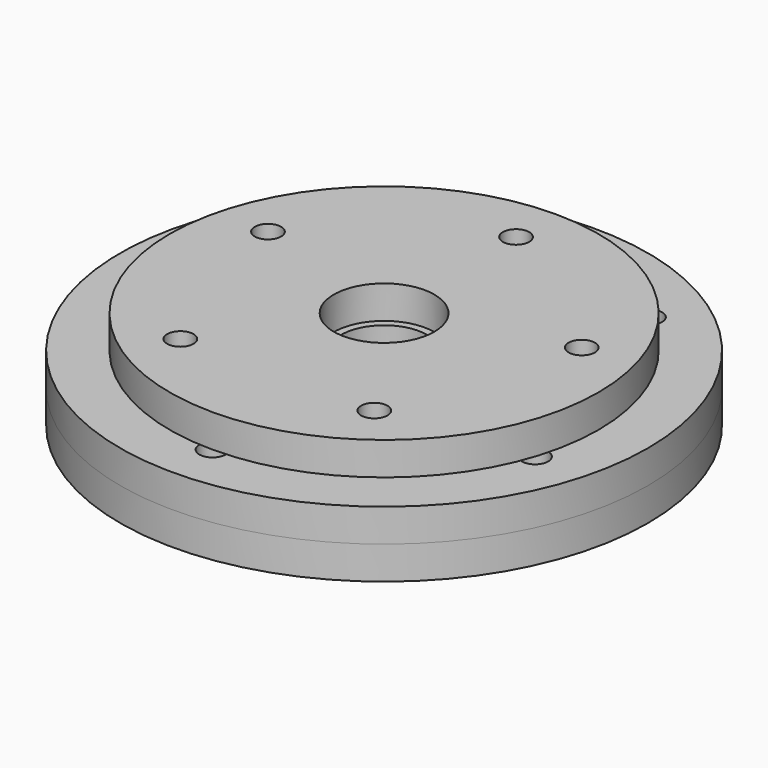
from build123d import *

# Parameters (mm, degrees)
F0_R     = 40
F0_R_2   = 3.5
F0_R_3   = 2
F0_R_4   = 6.5
F1_DEPTH = 5
F2_R     = 40
F2_R_2   = 2
F2_R_3   = 6.5
F3_DEPTH = 5
F4_R     = 32.5
F4_R_2   = 2
F4_R_3   = 7.625
F5_DEPTH = 5


with BuildPart() as f1:
    # F0 (on Top) → F1 (new body)
    with BuildSketch(Plane.XY):
        Circle(F0_R)
        with Locations((-14.694631, -20.225425)):
            Circle(F0_R_2, mode=Mode.SUBTRACT)
        with Locations((-30.909337, -10.043052)):
            Circle(F0_R_3, mode=Mode.SUBTRACT)
        with Locations((0, -32.5)):
            Circle(F0_R_3, mode=Mode.SUBTRACT)
        with Locations((14.694631, -20.225425)):
            Circle(F0_R_2, mode=Mode.SUBTRACT)
        with Locations((30.909337, -10.043052)):
            Circle(F0_R_3, mode=Mode.SUBTRACT)
        with Locations((-23.776413, 7.725425)):
            Circle(F0_R_2, mode=Mode.SUBTRACT)
        with Locations((-19.103021, 26.293052)):
            Circle(F0_R_3, mode=Mode.SUBTRACT)
        Circle(F0_R_4, mode=Mode.SUBTRACT)
        with Locations((23.776413, 7.725425)):
            Circle(F0_R_2, mode=Mode.SUBTRACT)
        with Locations((0, 25)):
            Circle(F0_R_2, mode=Mode.SUBTRACT)
        with Locations((19.103021, 26.293052)):
            Circle(F0_R_3, mode=Mode.SUBTRACT)
    extrude(amount=F1_DEPTH)


with BuildPart() as f3:
    # F2 (on face) → F3 (new body)
    with BuildSketch(Plane.XY.offset(5)):
        Circle(F2_R)
        with Locations((-14.694631, -20.225425)):
            Circle(F2_R_2, mode=Mode.SUBTRACT)
        with Locations((-30.909337, -10.043052)):
            Circle(F2_R_2, mode=Mode.SUBTRACT)
        with Locations((0, -32.5)):
            Circle(F2_R_2, mode=Mode.SUBTRACT)
        with Locations((14.694631, -20.225425)):
            Circle(F2_R_2, mode=Mode.SUBTRACT)
        with Locations((30.909337, -10.043052)):
            Circle(F2_R_2, mode=Mode.SUBTRACT)
        with Locations((-23.776413, 7.725425)):
            Circle(F2_R_2, mode=Mode.SUBTRACT)
        with Locations((-19.103021, 26.293052)):
            Circle(F2_R_2, mode=Mode.SUBTRACT)
        Circle(F2_R_3, mode=Mode.SUBTRACT)
        with Locations((23.776413, 7.725425)):
            Circle(F2_R_2, mode=Mode.SUBTRACT)
        with Locations((0, 25)):
            Circle(F2_R_2, mode=Mode.SUBTRACT)
        with Locations((19.103021, 26.293052)):
            Circle(F2_R_2, mode=Mode.SUBTRACT)
    extrude(amount=F3_DEPTH)


with BuildPart() as f5:
    # F4 (on face) → F5 (new body)
    with BuildSketch(Plane.XY.offset(10)):
        Circle(F4_R)
        with Locations((-14.694631, -20.225425)):
            Circle(F4_R_2, mode=Mode.SUBTRACT)
        with Locations((14.694631, -20.225425)):
            Circle(F4_R_2, mode=Mode.SUBTRACT)
        with Locations((-23.776413, 7.725425)):
            Circle(F4_R_2, mode=Mode.SUBTRACT)
        Circle(F4_R_3, mode=Mode.SUBTRACT)
        with Locations((23.776413, 7.725425)):
            Circle(F4_R_2, mode=Mode.SUBTRACT)
        with Locations((0, 25)):
            Circle(F4_R_2, mode=Mode.SUBTRACT)
    extrude(amount=F5_DEPTH)


solid = Compound([f1.part, f3.part, f5.part])
